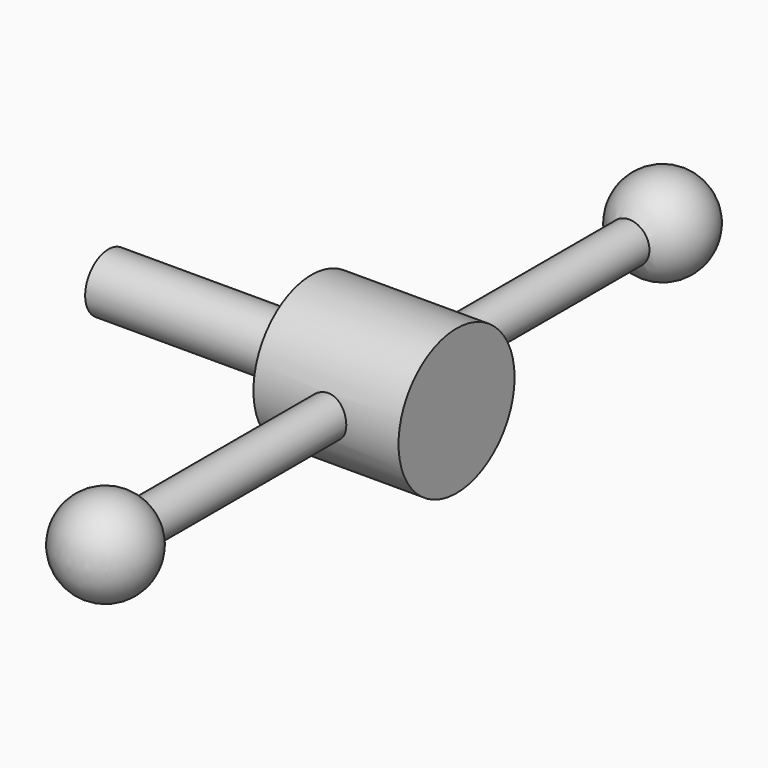
from build123d import *

# Parameters (mm, degrees)
F0_R     = 15.875
F1_DEPTH = 15.875
F2_R     = 6.35
F3_DEPTH = 44.45
F4_R     = 4.445
F5_DEPTH = 76.2
F6_R     = 4.445
F7_DEPTH = 76.2


with BuildPart() as f1:
    # F0 (on Right) → F1 (new body, symmetric)
    with BuildSketch(Plane.YZ):
        Circle(F0_R)
    extrude(amount=F1_DEPTH, both=True)

    # F2 (on face) → F3 (join)
    with BuildSketch(Plane(origin=(-15.875, 0, 0), x_dir=(0, -1, 0), z_dir=(-1, 0, 0))):
        Circle(F2_R)
    extrude(amount=F3_DEPTH)

    # F4 (on Front) → F5 (join)
    with BuildSketch(Plane.XZ):
        Circle(F4_R)
    extrude(amount=F5_DEPTH)

    # F6 (on Front) → F7 (join)
    with BuildSketch(Plane.XZ):
        Circle(F6_R)
    extrude(amount=-F7_DEPTH)

    # F8 (on Top) → F9 (revolve)
    with BuildSketch(Plane.XY):
        with BuildLine():
            Line((-4.445, 76.2), (4.445, 76.2))
            Line((4.445, 76.2), (10.16, 76.2))
            ThreePointArc((10.16, 76.2), (0, 86.36), (-10.16, 76.2))
            Line((-10.16, 76.2), (-4.445, 76.2))
        make_face()
    revolve(axis=Axis((-4.335576, 76.2, 0), (-1, 0, 0)))

    # F10 (on Top) → F11 (revolve)
    with BuildSketch(Plane.XY):
        with BuildLine():
            Line((10.16, -76.2), (4.445, -76.2))
            Line((4.445, -76.2), (-4.445, -76.2))
            Line((-4.445, -76.2), (-10.16, -76.2))
            ThreePointArc((-10.16, -76.2), (0, -86.36), (10.16, -76.2))
        make_face()
    revolve(axis=Axis((0.810277, -76.2, 0), (1, 0, 0)))


solid = f1.part
